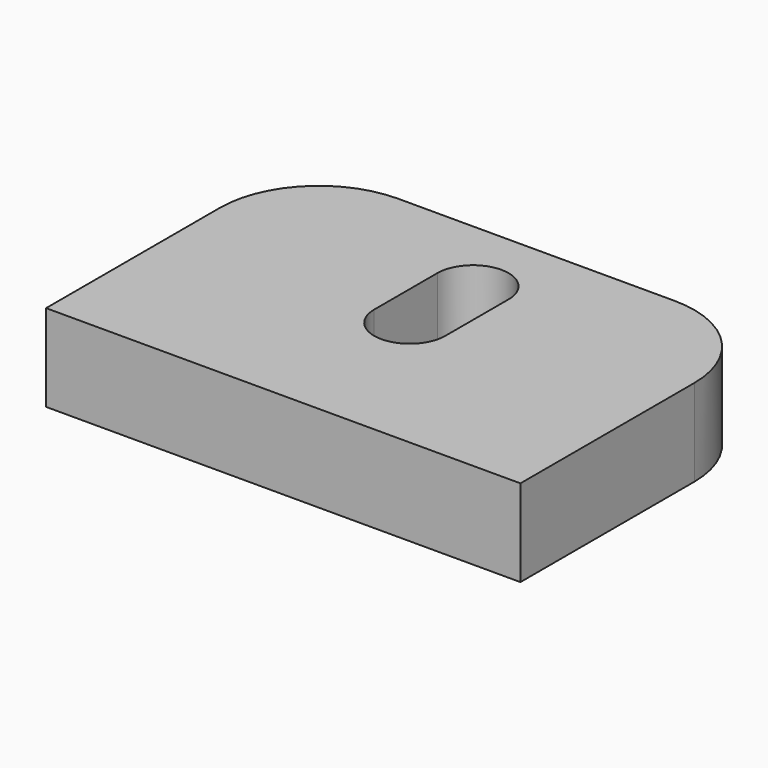
from build123d import *

# Parameters (mm, degrees)
F1_DEPTH = 22


with BuildPart() as f1:
    # F0 (on Top) → F1 (new body)
    with BuildSketch(Plane.XY):
        with BuildLine():
            ThreePointArc((60, 15), (52.67767, 32.67767), (35, 40))
            Line((35, 40), (-35, 40))
            ThreePointArc((-35, 40), (-52.67767, 32.67767), (-60, 15))
            Line((-60, 15), (-60, -40))
            Line((-60, -40), (60, -40))
            Line((60, -40), (60, 15))
        make_face()
        with BuildLine():
            ThreePointArc((-9, 20), (0, 29), (9, 20))
            Line((9, 20), (9, 0))
            ThreePointArc((9, 0), (0, -9), (-9, 0))
            Line((-9, 0), (-9, 20))
        make_face(mode=Mode.SUBTRACT)
    extrude(amount=F1_DEPTH)


solid = f1.part
